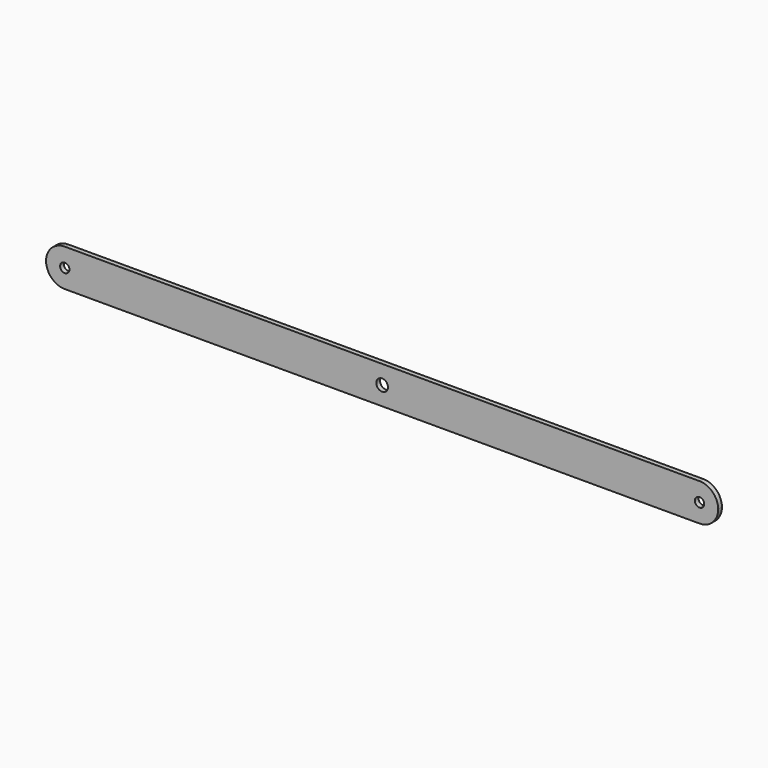
from build123d import *

# Parameters (mm, degrees)
F0_R     = 7.9375
F1_DEPTH = 6.35


with BuildPart() as f1:
    # F0 (on Front) → F1 (new body)
    with BuildSketch(Plane.XZ):
        with BuildLine():
            Line((-125.14351, 50.8), (-556.94351, 50.8))
            ThreePointArc((-556.94351, 50.8), (-538.982998, 43.360512), (-531.54351, 25.4))
            ThreePointArc((-531.54351, 25.4), (-538.982998, 7.439488), (-556.94351, 0))
            Line((-556.94351, 0), (-125.14351, 0))
            ThreePointArc((-125.14351, 0), (-150.54351, 25.4), (-125.14351, 50.8))
        make_face()
        with BuildLine():
            ThreePointArc((-531.54351, 25.4), (-538.982998, 43.360512), (-556.94351, 50.8))
            Line((-556.94351, 50.8), (-556.94351, 31.75))
            ThreePointArc((-556.94351, 31.75), (-552.453382, 29.890128), (-550.59351, 25.4))
            ThreePointArc((-550.59351, 25.4), (-552.453382, 20.909872), (-556.94351, 19.05))
            Line((-556.94351, 19.05), (-556.94351, 0))
            ThreePointArc((-556.94351, 0), (-538.982998, 7.439488), (-531.54351, 25.4))
        make_face()
        with BuildLine():
            Line((306.65649, 31.75), (306.65649, 50.8))
            ThreePointArc((306.65649, 50.8), (281.25649, 25.4), (306.65649, 0))
            Line((306.65649, 0), (306.65649, 19.05))
            ThreePointArc((306.65649, 19.05), (300.30649, 25.4), (306.65649, 31.75))
        make_face()
        with BuildLine():
            Line((-556.94351, 31.75), (-556.94351, 50.8))
            ThreePointArc((-556.94351, 50.8), (-582.34351, 25.4), (-556.94351, 0))
            Line((-556.94351, 0), (-556.94351, 19.05))
            ThreePointArc((-556.94351, 19.05), (-563.29351, 25.4), (-556.94351, 31.75))
        make_face()
        with BuildLine():
            ThreePointArc((332.05649, 25.4), (324.617002, 43.360512), (306.65649, 50.8))
            Line((306.65649, 50.8), (306.65649, 31.75))
            ThreePointArc((306.65649, 31.75), (311.146618, 29.890128), (313.00649, 25.4))
            ThreePointArc((313.00649, 25.4), (311.146618, 20.909872), (306.65649, 19.05))
            Line((306.65649, 19.05), (306.65649, 0))
            ThreePointArc((306.65649, 0), (324.617002, 7.439488), (332.05649, 25.4))
        make_face()
        with BuildLine():
            ThreePointArc((-99.74351, 25.4), (-107.182998, 43.360512), (-125.14351, 50.8))
            ThreePointArc((-125.14351, 50.8), (-150.54351, 25.4), (-125.14351, 0))
            ThreePointArc((-125.14351, 0), (-107.182998, 7.439488), (-99.74351, 25.4))
        make_face()
        with Locations((-125.14351, 25.4)):
            Circle(F0_R, mode=Mode.SUBTRACT)
        with BuildLine():
            Line((306.65649, 50.8), (-125.14351, 50.8))
            ThreePointArc((-125.14351, 50.8), (-107.182998, 43.360512), (-99.74351, 25.4))
            ThreePointArc((-99.74351, 25.4), (-107.182998, 7.439488), (-125.14351, 0))
            Line((-125.14351, 0), (306.65649, 0))
            ThreePointArc((306.65649, 0), (281.25649, 25.4), (306.65649, 50.8))
        make_face()
    extrude(amount=F1_DEPTH)


solid = f1.part
